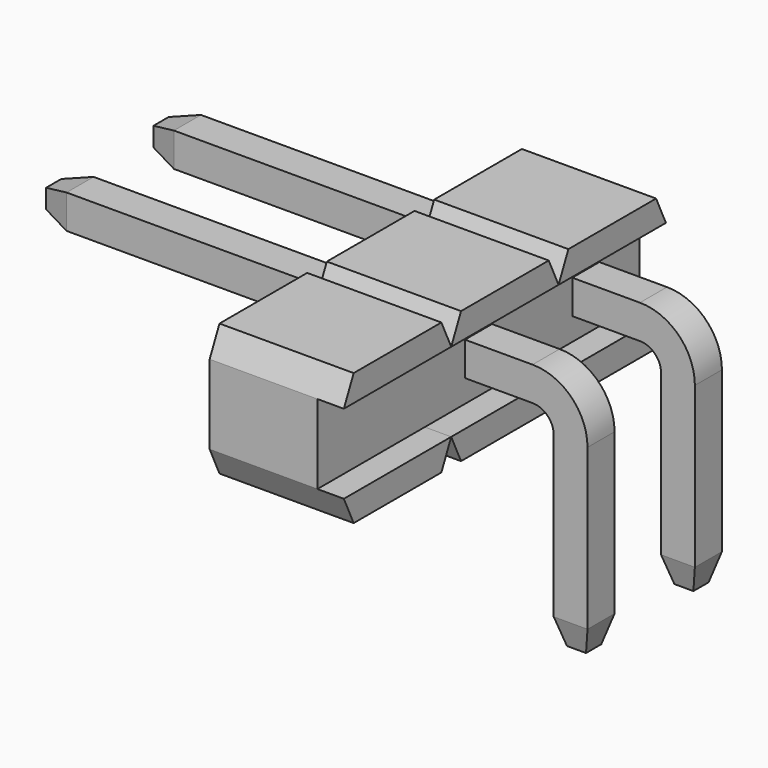
from build123d import *

# Parameters (mm, degrees)
PAD_DEPTH           = 2.54
LINEARPATTERN_COUNT = 3
LINEARPATTERN_PITCH = 2.54
SKETCH004_W         = 0.5
SKETCH004_H         = 1.5
POCKET_DEPTH        = 6.351
POCKET_DEPTH_BACK   = 1.271
SKETCH008_W         = 0.64
SKETCH008_H         = 0.64
SKETCH010_W         = 0.64
SKETCH010_H         = 0.64
SKETCH009_W         = 0.36
SKETCH009_H         = 0.36
SKETCH011_W         = 0.64
SKETCH011_H         = 0.64
SKETCH012_W         = 0.36
SKETCH012_H         = 0.36


with BuildPart() as f_1x3_insulator:
    # Sketch → Pad (new body)
    with BuildSketch(Plane.YZ):
        Polygon((-1.27, 0.75), (-1.27, -0.75), (-1.0375, -1.25), (1.0375, -1.25), (1.27, -0.75), (1.27, 0.75), (1.0375, 1.25), (-1.0375, 1.25), align=None)
    pad = extrude(amount=PAD_DEPTH)

    # LinearPattern: Pad ×3
    with Locations(*[(0, i * LINEARPATTERN_PITCH, 0) for i in range(1, LINEARPATTERN_COUNT)]):
        add(pad)

    # Sketch004 → Pocket (cut, two sides)
    with BuildSketch(Plane.XZ) as pocket_sk:
        with Locations((2.29, 0)):
            Rectangle(SKETCH004_W, SKETCH004_H)
    extrude(amount=-POCKET_DEPTH, mode=Mode.SUBTRACT)
    extrude(pocket_sk.sketch, amount=POCKET_DEPTH_BACK, mode=Mode.SUBTRACT)


with BuildPart() as pin:
    # AdditivePipe: sweep along a path in Sketch007
    with BuildLine(Plane.XZ) as additivepipe_path:
        Line((-5.5, 0), (0, 0))
        Line((0, 0), (3.32, 0))
        ThreePointArc((3.32, 0), (3.829117, -0.210883), (4.04, -0.72))
        Line((4.04, -0.72), (4.04, -3.75))
    # Sketch008 → AdditivePipe (sweep)
    with BuildSketch(Plane.YZ):
        Rectangle(SKETCH008_W, SKETCH008_H)
    sweep(path=additivepipe_path.line)

    # Sketch010 → AdditiveLoft section 0
    with BuildSketch(Plane.YZ.offset(-5.5)):
        Rectangle(SKETCH010_W, SKETCH010_H)
    # Sketch009 → AdditiveLoft section 1
    with BuildSketch(Plane.YZ.offset(-6)):
        Rectangle(SKETCH009_W, SKETCH009_H)
    loft()

    # Sketch011 → AdditiveLoft001 section 0
    with BuildSketch(Plane.XY.offset(-3.75)):
        with Locations((4.04, 0)):
            Rectangle(SKETCH011_W, SKETCH011_H)
    # Sketch012 → AdditiveLoft001 section 1
    with BuildSketch(Plane.XY.offset(-4.25)):
        with Locations((4.04, 0)):
            Rectangle(SKETCH012_W, SKETCH012_H)
    loft()


with BuildPart() as pin2:
    # Body002 base: copy of pin
    add(pin.part)


with BuildPart() as pin2_1:
    # Body002 placement: moved
    add(pin2.part.moved(Location((0, 2.54, 0))))


with BuildPart() as pin3:
    # Body003 base: copy of pin
    add(pin.part)


with BuildPart() as pin3_1:
    # Body003 placement: moved
    add(pin3.part.moved(Location((0, 5.08, 0))))


solid = Compound([f_1x3_insulator.part, pin2_1.part, pin3_1.part])
